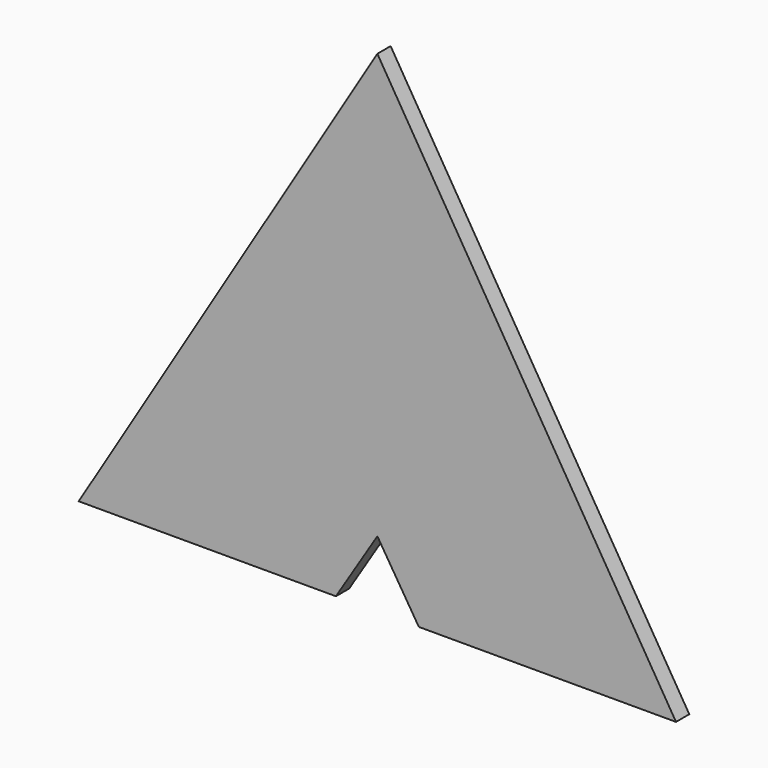
from build123d import *

# Parameters (mm, degrees)
F1_DEPTH = 6.35
F3_DEPTH = 6.351


with BuildPart() as f1:
    # F0 (on Front) → F1 (new body)
    with BuildSketch(Plane.XZ):
        Polygon((0, 187.96), (-114.3, 0), (114.3, 0), align=None)
    extrude(amount=F1_DEPTH)

    # F2 (on face) → F3 (cut, through all)
    with BuildSketch(Plane.XZ.offset(6.35)):
        Polygon((0, 25.4), (-15.875, 0), (15.875, 0), align=None)
    extrude(amount=-F3_DEPTH, mode=Mode.SUBTRACT)


solid = f1.part
